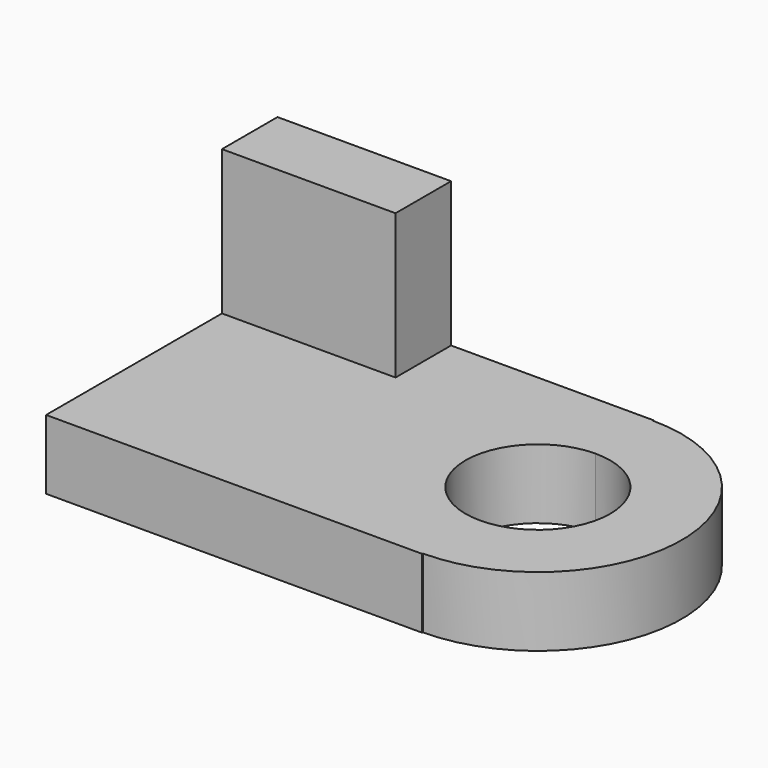
from build123d import *

# Parameters (mm, degrees)
F1_DEPTH = 304.8
F2_W     = 762
F2_H     = 304.8
F3_DEPTH = 635


with BuildPart() as f1:
    # F0 (on Top) → F1 (new body)
    with BuildSketch(Plane.XY):
        with BuildLine():
            Line((0, -3.717796), (0, 0))
            Line((0, 0), (-1651, 0))
            Line((-1651, 0), (-1651, -1270))
            Line((-1651, -1270), (0, -1270))
            Line((0, -1270), (0, -1266.282204))
            Line((0, -1266.282204), (0, -952.5))
            ThreePointArc((0, -952.5), (-317.5, -635), (0, -317.5))
            Line((0, -317.5), (0, -3.717796))
        make_face()
        with BuildLine():
            ThreePointArc((0, -1266.282204), (631.282204, -635), (0, -3.717796))
            Line((0, -3.717796), (0, -317.5))
            ThreePointArc((0, -317.5), (224.506403, -410.493597), (317.5, -635))
            ThreePointArc((317.5, -635), (224.506403, -859.506403), (0, -952.5))
            Line((0, -952.5), (0, -1266.282204))
        make_face()
    extrude(amount=F1_DEPTH)

    # F2 (on face) → F3 (join)
    with BuildSketch(Plane.XY.offset(304.8)):
        with Locations((-1270, -152.4)):
            Rectangle(F2_W, F2_H)
    extrude(amount=F3_DEPTH)


solid = f1.part
